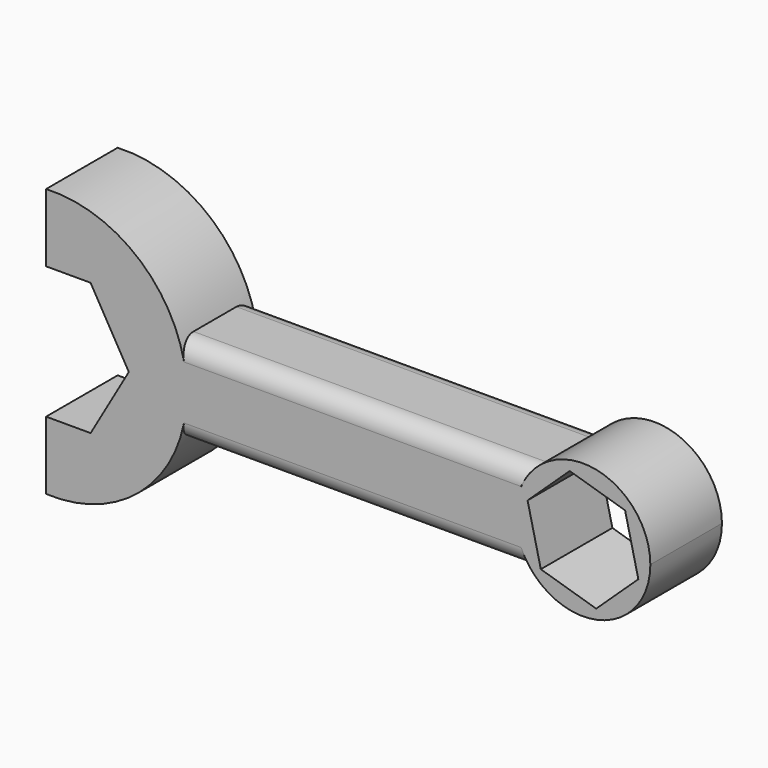
from build123d import *

# Parameters (mm, degrees)
F1_DEPTH = 25.4
F2_R     = 5.08


with BuildPart() as f1:
    # F0 (on Front) → F1 (new body)
    with BuildSketch(Plane.XZ):
        with BuildLine():
            Line((-38.436015, -12.7), (61.894025, -12.7))
            ThreePointArc((61.894025, -12.7), (57.070157, 0), (61.894025, 12.7))
            Line((61.894025, 12.7), (-38.436015, 12.7))
            ThreePointArc((-38.436015, 12.7), (-53.114616, 31.649481), (-76.2, 38.1))
            Line((-76.2, 38.1), (-76.2, 18.781394))
            Line((-76.2, 18.781394), (-63.558567, 18.781394))
            Line((-63.558567, 18.781394), (-52.715124, 0))
            Line((-52.715124, 0), (-63.558567, -18.781394))
            Line((-63.558567, -18.781394), (-76.2, -18.781394))
            Line((-76.2, -18.781394), (-76.2, -38.1))
            ThreePointArc((-76.2, -38.1), (-53.114616, -31.649481), (-38.436015, -12.7))
        make_face()
        with BuildLine():
            ThreePointArc((61.894025, 12.7), (57.070157, 0), (61.894025, -12.7))
            ThreePointArc((61.894025, -12.7), (82.992638, -17.88326), (95.329843, 0))
            ThreePointArc((95.329843, 0), (82.992638, 17.88326), (61.894025, 12.7))
        make_face()
        Polygon((72.443001, 15.982426), (88.162687, 11.24487), (91.919686, -4.737556), (79.956999, -15.982426), (64.237313, -11.24487), (60.480314, 4.737556), align=None, mode=Mode.SUBTRACT)
    extrude(amount=F1_DEPTH)

    # F2
    f2_edges = [f1.edges().sort_by_distance(p)[0] for p in [
        (11.729005, -25.4, -12.7),
        (11.729005, 0, -12.7),
        (11.729005, 0, 12.7),
        (11.729005, -25.4, 12.7),
    ]]
    fillet(f2_edges, radius=F2_R)


solid = f1.part
